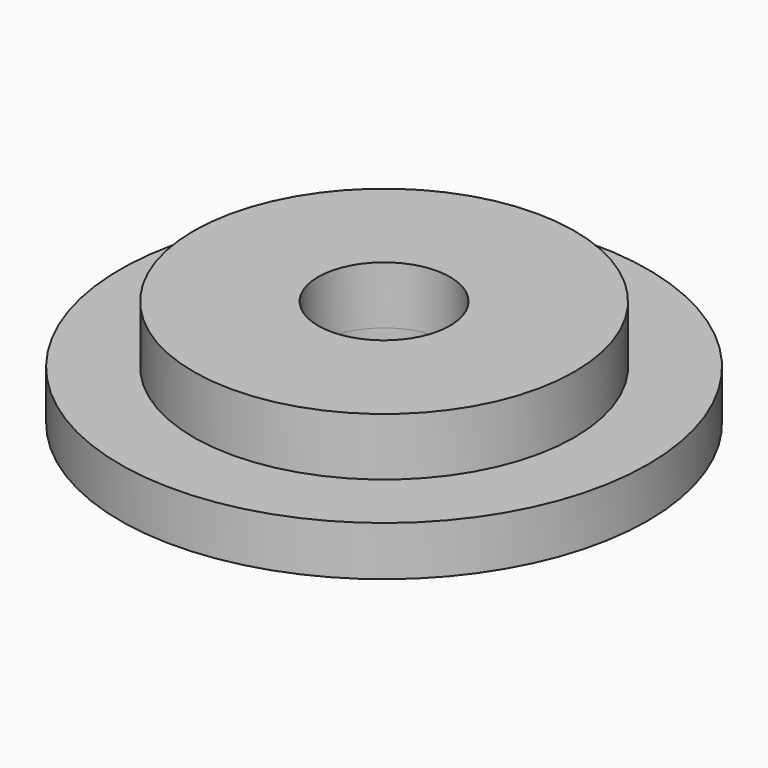
from build123d import *

# Parameters (mm, degrees)
F0_R     = 8
F1_DEPTH = 1.5
F2_R     = 5.775
F3_DEPTH = 1.75
F5_D     = 4
F5_2_D   = 4


with BuildPart() as f1:
    # F0 (on Top) → F1 (new body)
    with BuildSketch(Plane.XY):
        Circle(F0_R)
    extrude(amount=F1_DEPTH)

    # F5 (through all)
    with Locations(Plane.XY.offset(3.25)):
        with Locations((0, 0)):
            Hole(F5_D / 2)


with BuildPart() as f3:
    # F2 (on face) → F3 (new body)
    with BuildSketch(Plane.XY.offset(1.5)):
        Circle(F2_R)
    extrude(amount=F3_DEPTH)

    # F5#2 (through all)
    with Locations(Plane.XY.offset(3.25)):
        with Locations((0, 0)):
            Hole(F5_2_D / 2)


solid = Compound([f1.part, f3.part])
